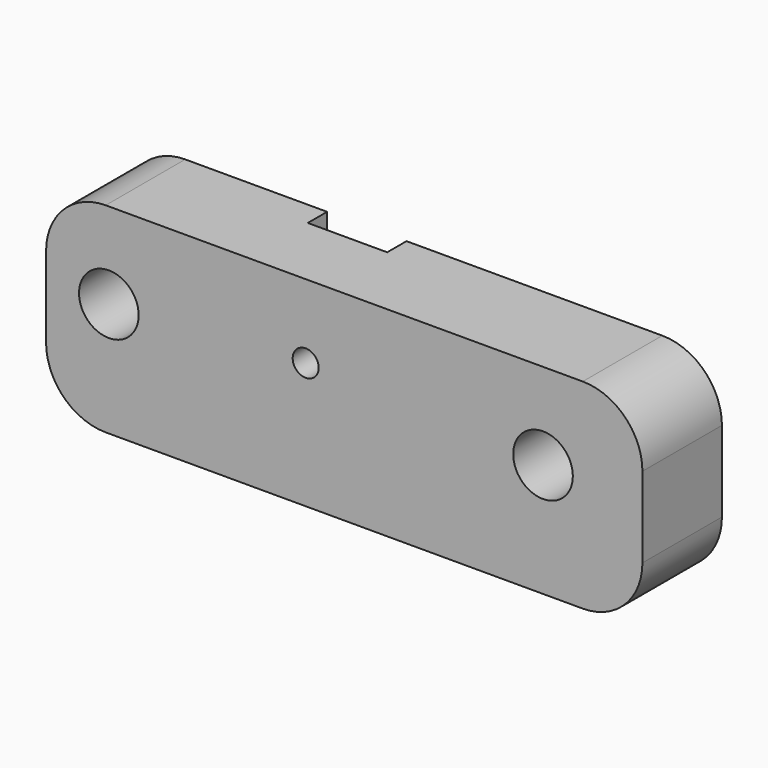
from build123d import *

# Parameters (mm, degrees)
F0_W     = 60
F0_H     = 20.115981
F0_R     = 3
F0_R_2   = 1.308767
F1_DEPTH = 10
F3_R     = 6
F4_W     = 7.989561
F4_H     = 2.429715
F5_DEPTH = 10


with BuildPart() as f1:
    # F0 (on Front) → F1 (new body)
    with BuildSketch(Plane.XZ):
        with Locations((30, 10.05799)):
            Rectangle(F0_W, F0_H)
        with Locations((6.314433, 11.456186)):
            Circle(F0_R, mode=Mode.SUBTRACT)
        with Locations((26.120204, 12.682377)):
            Circle(F0_R_2, mode=Mode.SUBTRACT)
        with Locations((50, 11.406668)):
            Circle(F0_R, mode=Mode.SUBTRACT)
    extrude(amount=F1_DEPTH)

    # F3
    f3_edges = [f1.edges().sort_by_distance(p)[0] for p in [
        (0, -5, 0),
        (0, -5, 20.115981),
        (60, -5, 0),
        (60, -5, 20.115981),
    ]]
    fillet(f3_edges, radius=F3_R)

    # F4 (on face) → F5 (cut)
    with BuildSketch(Plane.XY.offset(20.115981)):
        with Locations((24.271051, -1.214857)):
            Rectangle(F4_W, F4_H)
    extrude(amount=-F5_DEPTH, mode=Mode.SUBTRACT)


solid = f1.part
